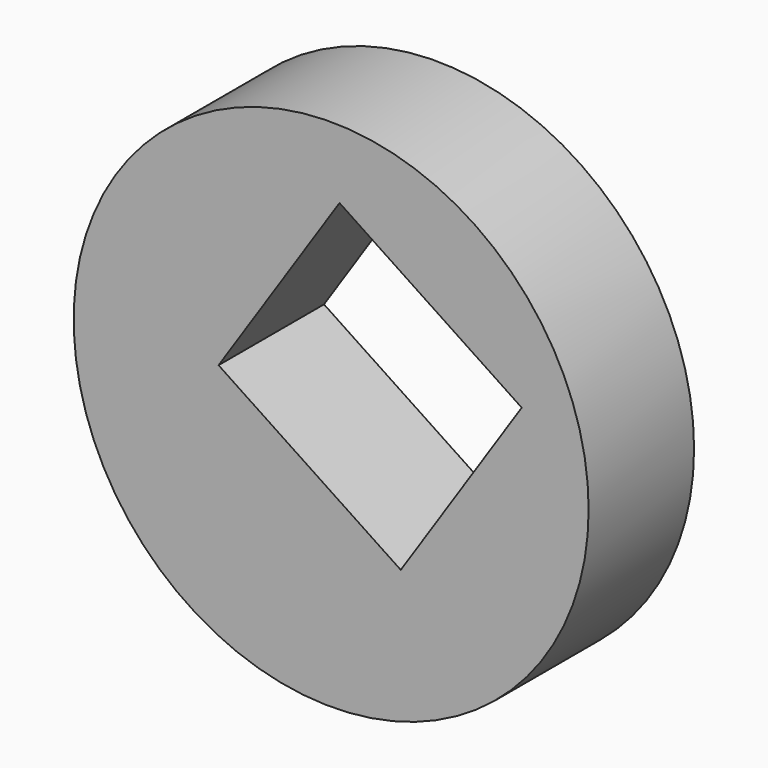
from build123d import *

# Parameters (mm, degrees)
F0_R     = 49.6219
F1_DEPTH = 25.4
F3_DEPTH = 25.4


with BuildPart() as f1:
    # F0 (on Front) → F1 (new body)
    with BuildSketch(Plane.XZ):
        with Locations((4.142317, 0)):
            Circle(F0_R)
    extrude(amount=F1_DEPTH)

    # F2 (on face) → F3 (cut, through all)
    with BuildSketch(Plane.XZ.offset(25.4)):
        Polygon((-17.555409, 1.288387), (17.555409, -22.022649), (40.866444, 13.088169), (5.755627, 36.399204), align=None)
    extrude(amount=-F3_DEPTH, mode=Mode.SUBTRACT)


solid = f1.part
